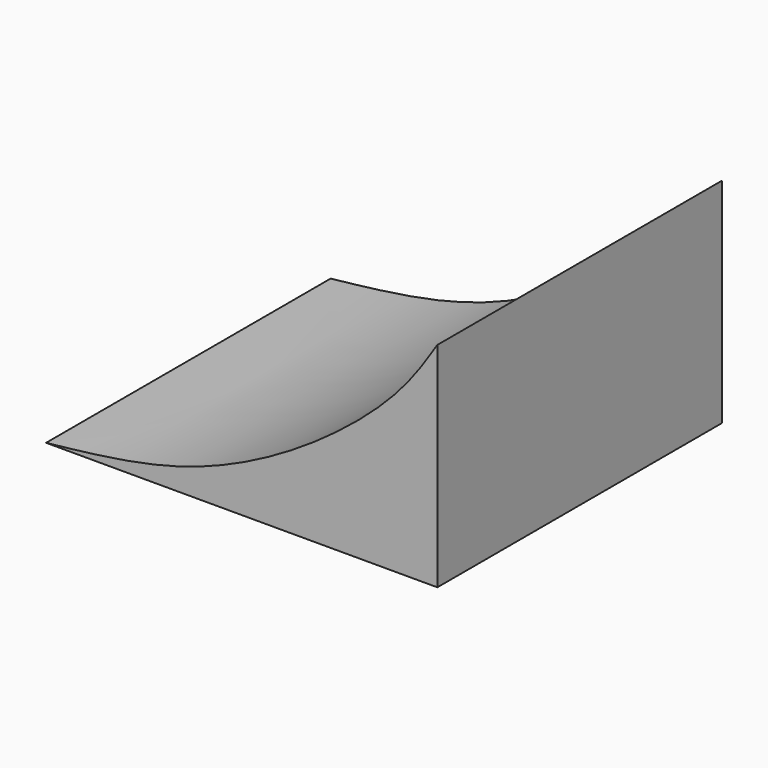
from build123d import *

# Parameters (mm, degrees)
F1_DEPTH = 127


with BuildPart() as f1:
    # F0 (on Front) → F1 (new body)
    with BuildSketch(Plane.XZ):
        with BuildLine():
            add(Edge.make_bspline(
                [(68.1233668917, 76.2), (64.0346627495, 69.8620112578), (54.5681620527, 55.1877827565), (22.2227103177, 27.9004922285), (-22.3528121361, 5.3815849517), (-55.2134152315, 1.7889723371), (-71.5766331083, 0)],
                knots=[0, 0, 0, 0, 0.1927655958, 0.4463066213, 0.7242836527, 1, 1, 1, 1], degree=3))
            Line((-71.5766331083, 0), (68.1233668917, 0))
            Line((68.1233668917, 0), (68.1233668917, 76.2))
        make_face()
    extrude(amount=F1_DEPTH)


solid = f1.part
